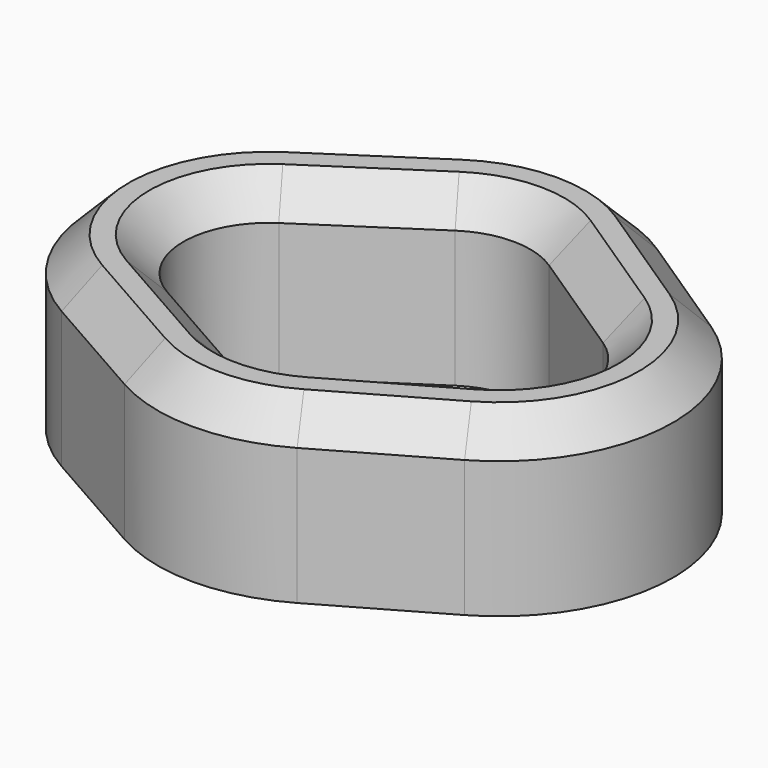
from build123d import *

# Parameters (mm, degrees)
F1_DEPTH = 25.4
F2_SIZE  = 5.08


with BuildPart() as f1:
    # F0 (on Top) → F1 (new body)
    with BuildSketch(Plane.XY):
        with BuildLine():
            Line((-14.264684, 33.751824), (-31.461247, 22.431957))
            ThreePointArc((-31.461247, 22.431957), (-43.110481, -0.051916), (-30.022598, -21.729936))
            Line((-30.022598, -21.729936), (-12.824053, -31.5095))
            ThreePointArc((-12.824053, -31.5095), (0.013644, -34.895912), (12.843118, -31.478476))
            Line((12.843118, -31.478476), (29.943193, -21.700124))
            ThreePointArc((29.943193, -21.700124), (42.976599, -0.055272), (31.383283, 22.393878))
            Line((31.383283, 22.393878), (14.281226, 33.714957))
            ThreePointArc((14.281226, 33.714957), (0.013807, 38.01948), (-14.264684, 33.751824))
        make_face()
        with BuildLine():
            ThreePointArc((-23.493854, -10.248351), (-29.909483, 0.378129), (-24.199075, 11.399635))
            Line((-24.199075, 11.399635), (-7.002511, 22.719502))
            ThreePointArc((-7.002511, 22.719502), (-0.003251, 24.81149), (6.990582, 22.70143))
            Line((6.990582, 22.70143), (24.092639, 11.380351))
            ThreePointArc((24.092639, 11.380351), (29.775636, 0.375866), (23.386712, -10.234356))
            Line((23.386712, -10.234356), (6.286637, -20.012707))
            ThreePointArc((6.286637, -20.012707), (-0.00232, -21.687921), (-6.295309, -20.027915))
            Line((-6.295309, -20.027915), (-23.493854, -10.248351))
        make_face(mode=Mode.SUBTRACT)
    extrude(amount=F1_DEPTH)

    # F2
    f2_edges = [f1.edges().sort_by_distance(p)[0] for p in [
        (0.013807, 38.01948, 25.4),
        (-22.862966, 28.09189, 25.4),
        (-43.110481, -0.051916, 25.4),
        (-21.423325, -26.619718, 25.4),
        (0.013644, -34.895912, 25.4),
        (21.393155, -26.5893, 25.4),
        (42.976599, -0.055272, 25.4),
        (22.832255, 28.054418, 25.4),
        (-0.00232, -21.687921, 25.4),
        (-14.894582, -15.138133, 25.4),
        (-29.909483, 0.378129, 25.4),
        (-15.600793, 17.059568, 25.4),
        (-0.003251, 24.81149, 25.4),
        (15.54161, 17.04089, 25.4),
        (29.775636, 0.375866, 25.4),
        (14.836675, -15.123531, 25.4),
    ]]
    chamfer(f2_edges, length=F2_SIZE)


solid = f1.part
